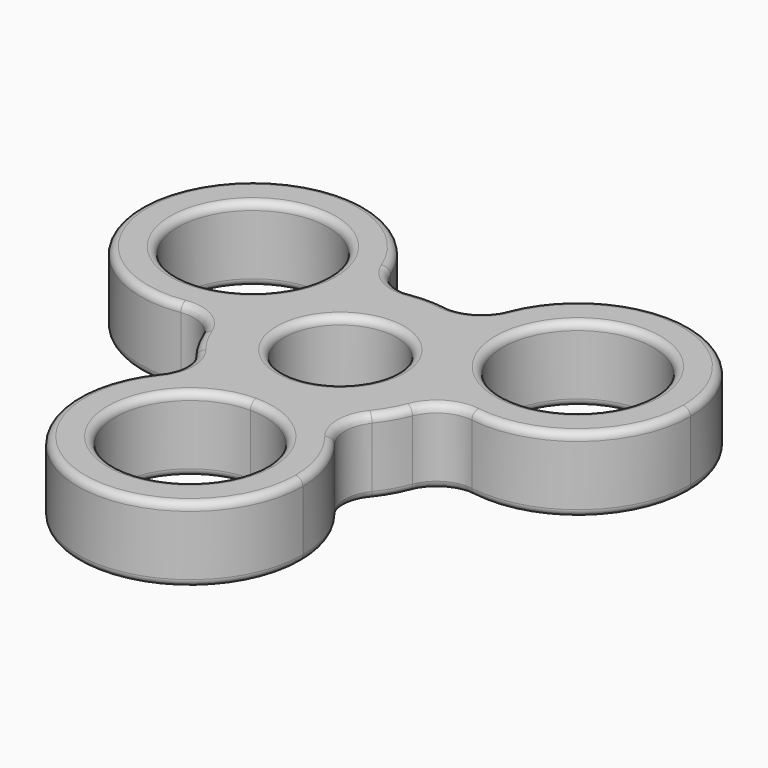
from build123d import *

# Parameters (mm, degrees)
F0_R     = 7.5
F1_DEPTH = 10
F2_R     = 5
F3_R     = 1


with BuildPart() as f1:
    # F0 (on Top) → F1 (new body)
    with BuildSketch(Plane.XY):
        with BuildLine():
            ThreePointArc((-12.9903813439, 7.4999995026), (-10.2722796636, 10.9307031115), (-6.6795365594, 13.4307033082))
            ThreePointArc((-6.6795365594, 13.4307033082), (-34.6410161514, 20), (-14.9710985352, -0.9307033082))
            ThreePointArc((-14.9710985352, -0.9307033082), (-14.602406539, 3.4307030286), (-12.9903813439, 7.4999995026))
        make_face()
        with BuildLine():
            ThreePointArc((-11.6506350946, 12.5), (-11.991376906, 9.9118092716), (-12.9903813439, 7.4999995026))
            ThreePointArc((-12.9903813439, 7.4999995026), (-31.3098932832, 15.0881907284), (-11.6506350946, 12.5))
        make_face(mode=Mode.SUBTRACT)
        with BuildLine():
            ThreePointArc((-6.6506350946, 12.5), (-6.6578622018, 12.9655759719), (-6.6795365594, 13.4307033082))
            ThreePointArc((-6.6795365594, 13.4307033082), (-10.2722796636, 10.9307031115), (-12.9903813439, 7.4999995026))
            ThreePointArc((-12.9903813439, 7.4999995026), (-14.602406539, 3.4307030286), (-14.9710985352, -0.9307033082))
            ThreePointArc((-14.9710985352, -0.9307033082), (-8.8993008823, 4.6004129345), (-6.6506350946, 12.5))
        make_face()
        with BuildLine():
            ThreePointArc((8.2915619759, -12.5), (12.9903810568, -7.5), (14.9710985352, -0.9307033082))
            ThreePointArc((14.9710985352, -0.9307033082), (8.6602540378, 5), (6.6795365594, 13.4307033082))
            ThreePointArc((6.6795365594, 13.4307033082), (0, 15), (-6.6795365594, 13.4307033082))
            ThreePointArc((-6.6795365594, 13.4307033082), (-6.6578622018, 12.9655759719), (-6.6506350946, 12.5))
            ThreePointArc((-6.6506350946, 12.5), (-8.8993008823, 4.6004129345), (-14.9710985352, -0.9307033082))
            ThreePointArc((-14.9710985352, -0.9307033082), (-12.9903810568, -7.5), (-8.2915619759, -12.5))
            ThreePointArc((-8.2915619759, -12.5), (0, -10), (8.2915619759, -12.5))
        make_face()
        Circle(F0_R, mode=Mode.SUBTRACT)
        with BuildLine():
            ThreePointArc((-1.91e-08, -15), (4.3301270098, -14.3614066191), (8.2915619759, -12.5))
            ThreePointArc((8.2915619759, -12.5), (0, -10), (-8.2915619759, -12.5))
            ThreePointArc((-8.2915619759, -12.5), (-4.330127028, -14.3614066136), (-1.91e-08, -15))
        make_face()
        with BuildLine():
            ThreePointArc((15, -25), (13.2169101843, -17.9068141727), (8.2915619759, -12.5))
            ThreePointArc((8.2915619759, -12.5), (4.3301270098, -14.3614066191), (-1.91e-08, -15))
            ThreePointArc((-1.91e-08, -15), (-4.330127028, -14.3614066136), (-8.2915619759, -12.5))
            ThreePointArc((-8.2915619759, -12.5), (-7.0931858273, -38.2169101843), (15, -25))
        make_face()
        with BuildLine():
            ThreePointArc((10, -25), (-7.0710678051, -32.0710678186), (-1.91e-08, -15))
            ThreePointArc((-1.91e-08, -15), (7.0710678051, -17.9289321814), (10, -25))
        make_face(mode=Mode.SUBTRACT)
        with BuildLine():
            ThreePointArc((14.9710985352, -0.9307033082), (14.9927728928, -0.4655759719), (15, 0))
            ThreePointArc((15, 0), (14.4888874586, 3.8822854367), (12.9903813051, 7.4999995699))
            ThreePointArc((12.9903813051, 7.4999995699), (10.2722796353, 10.9307031381), (6.6795365594, 13.4307033082))
            ThreePointArc((6.6795365594, 13.4307033082), (8.6602540378, 5), (14.9710985352, -0.9307033082))
        make_face()
        with BuildLine():
            ThreePointArc((12.9903813051, 7.4999995699), (14.4888874586, 3.8822854367), (15, 0))
            ThreePointArc((15, 0), (14.9927728928, -0.4655759719), (14.9710985352, -0.9307033082))
            ThreePointArc((14.9710985352, -0.9307033082), (29.5502221601, -0.2513342124), (36.6506350946, 12.5))
            ThreePointArc((36.6506350946, 12.5), (22.1162110665, 27.4927728928), (6.6795365594, 13.4307033082))
            ThreePointArc((6.6795365594, 13.4307033082), (10.2722796353, 10.9307031381), (12.9903813051, 7.4999995699))
        make_face()
        with BuildLine():
            ThreePointArc((31.6506350946, 12.5), (24.2388257855, 2.8407418014), (12.9903813051, 7.4999995699))
            ThreePointArc((12.9903813051, 7.4999995699), (19.0624444037, 22.1592581986), (31.6506350946, 12.5))
        make_face(mode=Mode.SUBTRACT)
    extrude(amount=F1_DEPTH)

    # F2
    f2_edges = [f1.edges().sort_by_distance(p)[0] for p in [
        (14.971099, -0.930703, 5),
        (8.291562, -12.5, 5),
        (-8.291562, -12.5, 5),
        (-14.971099, -0.930703, 5),
        (-6.679537, 13.430703, 5),
        (6.679537, 13.430703, 5),
    ]]
    fillet(f2_edges, radius=F2_R)

    # F3
    f3_edges = [f1.edges().sort_by_distance(p)[0] for p in [
        (-16.131565, -2.94069, 0),
        (-5.51907, 15.44069, 0),
        (-7.5, 0, 0),
        (-7.5, 0, 10),
        (5.51907, 15.44069, 10),
        (5.51907, 15.44069, 0),
        (-10.612495, -12.5, 10),
        (0, -35, 0),
        (0, -35, 10),
        (-30.310889, 17.5, 0),
        (-30.310889, 17.5, 10),
        (-16.131565, -2.94069, 10),
        (30.310889, 17.5, 0),
        (30.310889, 17.5, 10),
        (-10.612495, -12.5, 0),
        (0, -40, 0),
        (0, -40, 10),
        (10.612495, -12.5, 0),
        (-34.641016, 20, 0),
        (-34.641016, 20, 10),
        (34.641016, 20, 0),
        (34.641016, 20, 10),
        (16.131565, -2.94069, 0),
        (-12.990381, -7.5, 0),
        (-12.990381, -7.5, 10),
        (12.990381, -7.5, 0),
        (-7.676961, 17.953113, 5),
        (-2.264303, 14.828113, 5),
        (-5.51907, 15.44069, 10),
        (7.676961, 17.953113, 5),
        (2.264303, 14.828113, 5),
        (-11.709371, -15.625, 5),
        (-11.709371, -9.375, 5),
        (-13.973674, -5.453113, 5),
        (-19.386333, -2.328113, 5),
        (12.990381, -7.5, 10),
        (10.612495, -12.5, 10),
        (11.709371, -9.375, 5),
        (11.709371, -15.625, 5),
        (16.131565, -2.94069, 10),
        (13.973674, -5.453113, 5),
        (19.386333, -2.328113, 5),
        (0, 15, 0),
        (0, 15, 10),
    ]]
    fillet(f3_edges, radius=F3_R)


solid = f1.part
